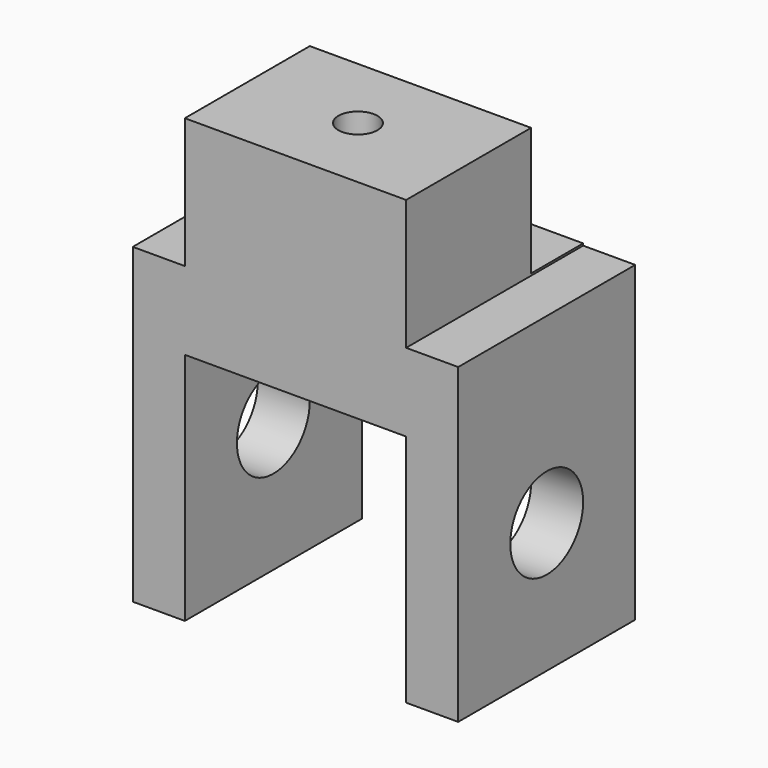
from build123d import *

# Parameters (mm, degrees)
F0_W     = 17
F0_H     = 10
F1_DEPTH = 17
F2_W     = 5
F2_H     = 10
F2_R     = 3.5
F3_DEPTH = 12.5
F4_R     = 1.5
F5_DEPTH = 20


with BuildPart() as f1:
    # F0 (on Front) → F1 (new body)
    with BuildSketch(Plane.XZ):
        Rectangle(F0_W, F0_H)
        Polygon((8.5, -5), (-8.5, -5), (-12.5, -5), (-12.5, -29), (-8.5, -29), (-8.5, -11), (8.5, -11), (8.5, -29), (12.5, -29), (12.5, -5), align=None)
    extrude(amount=F1_DEPTH)

    # F2 (on Right) → F3 (cut, symmetric)
    with BuildSketch(Plane.YZ):
        with Locations((-2.5, 0.153744)):
            Rectangle(F2_W, F2_H)
        with Locations((-8.5, -19)):
            Circle(F2_R)
    extrude(amount=F3_DEPTH, both=True, mode=Mode.SUBTRACT)

    # F4 (on Top) → F5 (cut, symmetric)
    with BuildSketch(Plane.XY):
        with Locations((0, -11)):
            Circle(F4_R)
    extrude(amount=F5_DEPTH, both=True, mode=Mode.SUBTRACT)


solid = f1.part
